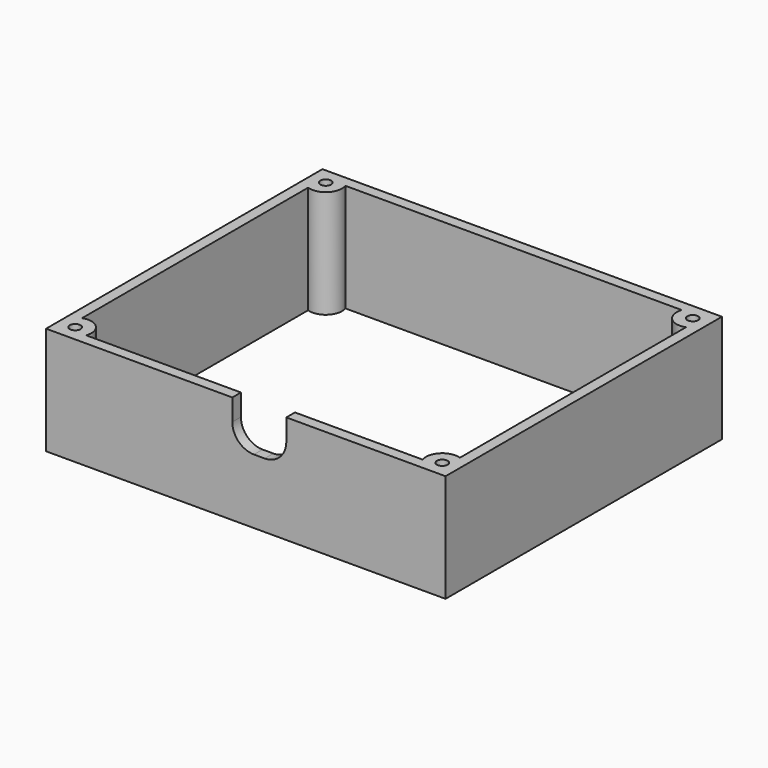
from build123d import *

# Parameters (mm, degrees)
BOX010_W          = 10
BOX010_H          = 10
BOX010_DEPTH      = 10
FILLET001_R       = 4
BOX008_W          = 70
BOX008_H          = 60
BOX008_DEPTH      = 20
BOX007_W          = 74
BOX007_H          = 64
BOX007_DEPTH      = 20
CYLINDER007_R     = 1
CYLINDER007_DEPTH = 20
CYLINDER006_R     = 3
CYLINDER006_DEPTH = 20
ARRAY004_X_COUNT  = 2
ARRAY004_X_PITCH  = 68
ARRAY004_Y_COUNT  = 2
ARRAY004_Y_PITCH  = 58


with BuildPart() as fillet001:
    # Box010 → Box010 (new body)
    with BuildSketch(Plane(origin=(34.5, -4.5, 15), x_dir=(1, 0, 0), z_dir=(0, 0, 1))):
        with Locations((5, 5)):
            Rectangle(BOX010_W, BOX010_H)
    extrude(amount=BOX010_DEPTH)

    # Fillet001
    fillet001_edges = [fillet001.edges().sort_by_distance(p)[0] for p in [
        (34.5, 0.5, 15),
        (44.5, 0.5, 15),
    ]]
    fillet(fillet001_edges, radius=FILLET001_R)


with BuildPart() as wall_inner_extraction:
    # Box008 → Box008 (new body)
    with BuildSketch(Plane(origin=(2, 2, 0), x_dir=(1, 0, 0), z_dir=(0, 0, 1))):
        with Locations((35, 30)):
            Rectangle(BOX008_W, BOX008_H)
    extrude(amount=BOX008_DEPTH)


with BuildPart() as wall_box_cut:
    # Box007 → Box007 (new body)
    with BuildSketch(Plane.XY):
        with Locations((37, 32)):
            Rectangle(BOX007_W, BOX007_H)
    extrude(amount=BOX007_DEPTH)

    # Cut004: cut wall inner extraction
    add(wall_inner_extraction.part, mode=Mode.SUBTRACT)


with BuildPart() as wall_box_hole:
    # Cylinder007 → Cylinder007 (new body)
    with BuildSketch(Plane.XY):
        Circle(CYLINDER007_R)
    extrude(amount=CYLINDER007_DEPTH)


with BuildPart() as wall_fusion_cut:
    # Cylinder006 → Cylinder006 (new body)
    with BuildSketch(Plane.XY):
        Circle(CYLINDER006_R)
    extrude(amount=CYLINDER006_DEPTH)

    # Cut005: cut wall box hole
    add(wall_box_hole.part, mode=Mode.SUBTRACT)


with BuildPart() as wall_fusion_cut_1:
    # Cut005 placement: moved
    add(wall_fusion_cut.part.moved(Location((3, 3, 0))))

    # Array004 X: wall fusion cut ×2


with BuildPart() as wall_fusion_cut_2:
    add(wall_fusion_cut_1.part)
    with Locations(*[(i * ARRAY004_X_PITCH, 0, 0) for i in range(1, ARRAY004_X_COUNT)]):
        add(wall_fusion_cut_1.part)

    # Array004 Y: wall fusion cut ×2


with BuildPart() as wall_fusion_cut_3:
    add(wall_fusion_cut_2.part)
    with Locations(*[(0, i * ARRAY004_Y_PITCH, 0) for i in range(1, ARRAY004_Y_COUNT)]):
        add(wall_fusion_cut_2.part)

    # Fusion003: union wall box cut
    add(wall_box_cut.part)


with BuildPart() as wall_fusion_cut_4:
    # Fusion003 placement: moved
    add(wall_fusion_cut_3.part.moved(Location((0, 0, 3))))

    # Cut007: cut Fillet001
    add(fillet001.part, mode=Mode.SUBTRACT)


solid = wall_fusion_cut_4.part
